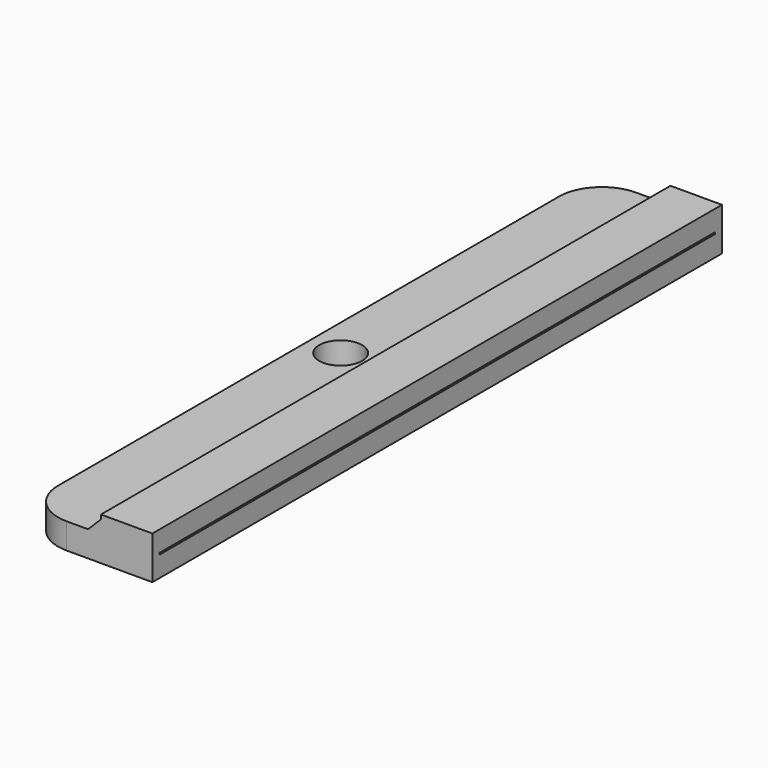
from build123d import *

# Parameters (mm, degrees)
BOX_W           = 15
BOX_H           = 83
BOX_DEPTH       = 3
FILLET_R        = 5
SKETCH_W        = 6
SKETCH_H        = 83
PAD_DEPTH       = 2
SKETCH001_W     = 81
SKETCH001_H     = 0.2
POCKET_DEPTH    = 5
CHAMFER_SIZE    = 1.5
SKETCH002_R     = 2.5
POCKET001_DEPTH = 5


with BuildPart() as part:
    # Box → Box (new body)
    with BuildSketch(Plane.XY):
        with Locations((7.5, 41.5)):
            Rectangle(BOX_W, BOX_H)
    extrude(amount=BOX_DEPTH)

    # Fillet
    fillet_edges = [part.edges().sort_by_distance(p)[0] for p in [
        (0, 0, 1.5),
        (0, 83, 1.5),
    ]]
    fillet(fillet_edges, radius=FILLET_R)

    # Sketch (on Face2 of BaseFeature) → Pad (new body)
    with BuildSketch(Plane.XY.offset(3)):
        with Locations((12, 41.5)):
            Rectangle(SKETCH_W, SKETCH_H)
    extrude(amount=PAD_DEPTH)

    # Sketch001 (on Face10 of Pad) → Pocket (cut)
    with BuildSketch(Plane.YZ.offset(15)):
        with Locations((41.5, 2.5)):
            Rectangle(SKETCH001_W, SKETCH001_H)
    extrude(amount=-POCKET_DEPTH, mode=Mode.SUBTRACT)

    # Chamfer
    chamfer_edges = [part.edges().sort_by_distance(p)[0] for p in [
        (9, 41.5, 3),
    ]]
    chamfer(chamfer_edges, length=CHAMFER_SIZE)

    # Sketch002 (on Face5 of Chamfer) → Pocket001 (cut)
    with BuildSketch(Plane.XY.offset(3)):
        with Locations((3.75, 41.5)):
            Circle(SKETCH002_R)
    extrude(amount=-POCKET001_DEPTH, mode=Mode.SUBTRACT)


solid = part.part
